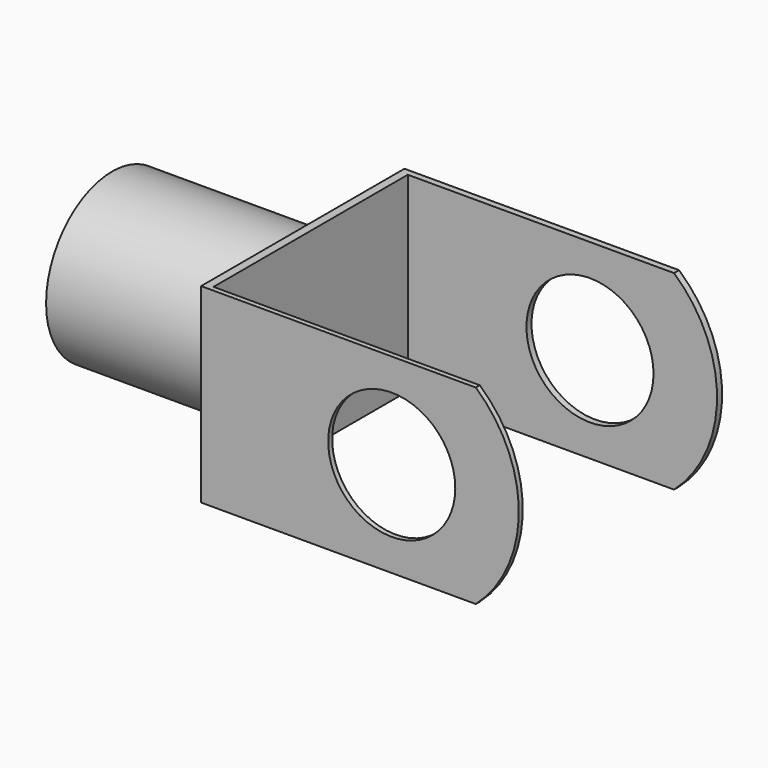
from build123d import *

# Parameters (mm, degrees)
F0_R     = 12.7
F1_DEPTH = 50.8
F2_W     = 48.538668
F2_H     = 54.82199
F3_DEPTH = 23.8125
F4_W     = 48.538668
F4_H     = 50.8
F5_DEPTH = 76.2
F6_R     = 16.51
F6_R_2   = 12.7
F7_DEPTH = 38.1
F8_W     = 50.8
F8_H     = 6.35
F9_DEPTH = 101.6


with BuildPart() as f1:
    # F0 (on Front) → F1 (new body)
    with BuildSketch(Plane.XZ):
        with BuildLine():
            Line((-25.493682, 35.296235), (-25.493682, -15.503765))
            Line((-25.493682, -15.503765), (12.606318, -15.503765))
            ThreePointArc((12.606318, -15.503765), (38.006318, 9.896235), (12.606318, 35.296235))
            Line((12.606318, 35.296235), (-25.493682, 35.296235))
        make_face()
        with Locations((12.606318, 9.896235)):
            Circle(F0_R, mode=Mode.SUBTRACT)
    extrude(amount=F1_DEPTH)

    # F2 (on Right) → F3 (cut, symmetric)
    with BuildSketch(Plane.YZ):
        with Locations((-25.535175, 9.630844)):
            Rectangle(F2_W, F2_H)
    extrude(amount=F3_DEPTH, both=True, mode=Mode.SUBTRACT)

    # F4 (on face) → F5 (cut)
    with BuildSketch(Plane.YZ.offset(-23.8125)):
        with Locations((-25.535175, 9.896235)):
            Rectangle(F4_W, F4_H)
    extrude(amount=F5_DEPTH, mode=Mode.SUBTRACT)

    # F6 (on face) → F7 (join)
    with BuildSketch(Plane(origin=(-25.493682, 0, 0), x_dir=(0, -1, 0), z_dir=(-1, 0, 0))):
        with Locations((25.4, 9.896235)):
            Circle(F6_R)
        with Locations((25.4, 9.896235)):
            Circle(F6_R_2, mode=Mode.SUBTRACT)
    extrude(amount=F7_DEPTH)

    # F8 (on face) → F9 (cut)
    with BuildSketch(Plane(origin=(-25.493682, 0, 0), x_dir=(0, -1, 0), z_dir=(-1, 0, 0))):
        with Locations((25.4, 32.121235)):
            Rectangle(F8_W, F8_H)
        with Locations((25.4, -12.328765)):
            Rectangle(F8_W, F8_H)
    extrude(amount=-F9_DEPTH, mode=Mode.SUBTRACT)


solid = f1.part
